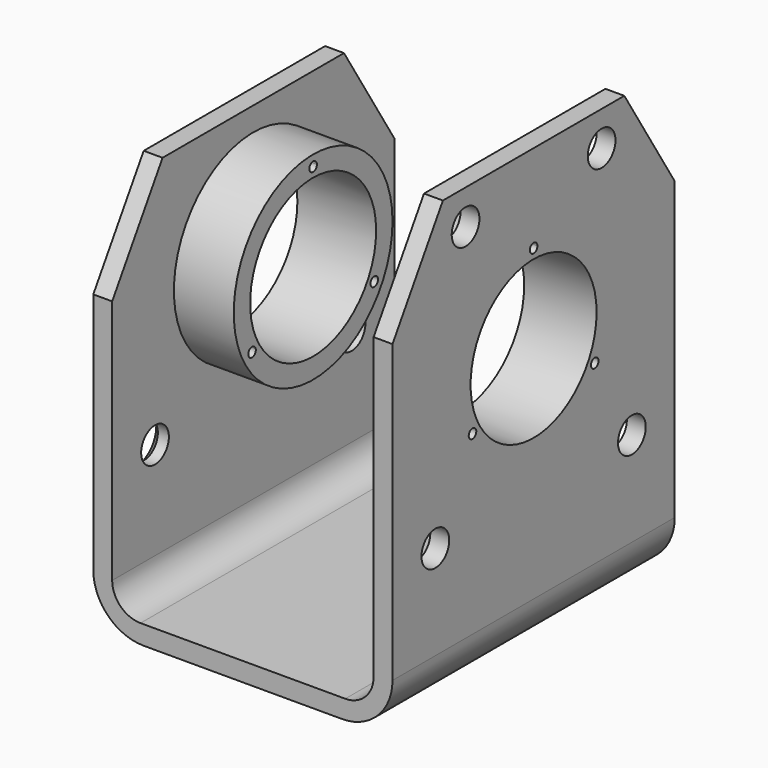
from build123d import *

# Parameters (mm, degrees)
F1_DEPTH    = 112
F2_R        = 25
F3_DEPTH    = 185
F2_R_2      = 31.5
F5_DEPTH    = 184
F6_DEPTH    = 95
F7_W        = 47
F7_H        = 100
F8_DEPTH    = 159
F9_R        = 5.5
F10_DEPTH   = 157.2
F9_R_2      = 1.5
F11_DEPTH   = 154.4
F12_SIZE2   = 32
F12_SIZE    = 20
F12_2_SIZE2 = 32
F12_2_SIZE  = 20
F13_SIZE    = 2.5


with BuildPart() as f1:
    # F0 (on Front) → F1 (new body)
    with BuildSketch(Plane.XZ):
        with BuildLine():
            ThreePointArc((-59.7957043946, -22.8214863997), (-55.1094128936, -34.1351948987), (-43.7957043946, -38.8214863997))
            Line((-43.7957043946, -38.8214863997), (19.2042956054, -38.8214863997))
            ThreePointArc((19.2042956054, -38.8214863997), (30.5180041044, -34.1351948987), (35.2042956054, -22.8214863997))
            Line((35.2042956054, -22.8214863997), (35.2042956054, 103.1785136003))
            Line((35.2042956054, 103.1785136003), (29.2042956054, 103.1785136003))
            Line((29.2042956054, 103.1785136003), (29.2042956054, 87.1785136003))
            Line((29.2042956054, 87.1785136003), (29.2042956054, -23.8214863997))
            ThreePointArc((29.2042956054, -23.8214863997), (26.5682566361, -30.1854474304), (20.2042956054, -32.8214863997))
            Line((20.2042956054, -32.8214863997), (-44.7957043946, -32.8214863997))
            ThreePointArc((-44.7957043946, -32.8214863997), (-51.1596654253, -30.1854474304), (-53.7957043946, -23.8214863997))
            Line((-53.7957043946, -23.8214863997), (-53.7957043946, 86.1785136003))
            Line((-53.7957043946, 86.1785136003), (-59.7957043946, 86.1785136003))
            Line((-59.7957043946, 86.1785136003), (-59.7957043946, -22.8214863997))
        make_face()
    extrude(amount=F1_DEPTH)

    # F2 (on face) → F3 (cut)
    with BuildSketch(Plane.YZ.offset(35.2042956054)):
        with Locations((-56, 47.1785136003)):
            Circle(F2_R)
    extrude(amount=-F3_DEPTH, mode=Mode.SUBTRACT)

    # F2 (on face) → F5 (cut)
    with BuildSketch(Plane.YZ.offset(35.2042956054)):
        with Locations((-56, 47.1785136003)):
            Circle(F2_R_2)
        with Locations((-56, 47.1785136003)):
            Circle(F2_R, mode=Mode.SUBTRACT)
    extrude(amount=-F5_DEPTH, mode=Mode.SUBTRACT)

    # F2 (on face) → F6 (join)
    with BuildSketch(Plane.YZ.offset(35.2042956054)):
        with Locations((-56, 47.1785136003)):
            Circle(F2_R_2)
        with Locations((-56, 47.1785136003)):
            Circle(F2_R, mode=Mode.SUBTRACT)
    extrude(amount=-F6_DEPTH)

    # F7 (on offset) → F8 (cut)
    with BuildSketch(Plane.XZ.offset(137)):
        with Locations((-11.2957043946, 29.1785136003)):
            Rectangle(F7_W, F7_H)
    extrude(amount=-F8_DEPTH, mode=Mode.SUBTRACT)

    # F9 (on face) → F10 (cut)
    with BuildSketch(Plane.YZ.offset(35.2042956054)):
        with Locations((-83, 92.1785136003)):
            Circle(F9_R)
        with Locations((-29, 92.1785136003)):
            Circle(F9_R)
        with Locations((-95, 7.1785136003)):
            Circle(F9_R)
        with Locations((-17, 7.1785136003)):
            Circle(F9_R)
    extrude(amount=-F10_DEPTH, mode=Mode.SUBTRACT)

    # F9 (on face) → F11 (cut)
    with BuildSketch(Plane.YZ.offset(35.2042956054)):
        with Locations((-31.751288694, 33.2468845546)):
            Circle(F9_R_2)
        with Locations((-80.248711306, 33.2468845546)):
            Circle(F9_R_2)
        with BuildLine():
            ThreePointArc((-56, 73.7468845546), (-54.9393398282, 74.1862243828), (-54.5, 75.2468845546))
            ThreePointArc((-54.5, 75.2468845546), (-57.0606601718, 76.3075447264), (-56, 73.7468845546))
        make_face()
    extrude(amount=-F11_DEPTH, mode=Mode.SUBTRACT)

    # F12
    f12_edges = [f1.edges().sort_by_distance(p)[0] for p in [
        (-56.795704, 0, 86.178514),
        (-56.795704, -112, 86.178514),
    ]]
    f12_side = f1.faces().sort_by_distance((-56.795704, -56, 86.178514))[0]
    chamfer(f12_edges, length=F12_SIZE, length2=F12_SIZE2, reference=f12_side)

    # F12#2
    f12_2_edges = [f1.edges().sort_by_distance(p)[0] for p in [
        (32.204296, 0, 103.178514),
        (32.204296, -112, 103.178514),
    ]]
    f12_2_side = f1.faces().sort_by_distance((32.204296, -56, 103.178514))[0]
    chamfer(f12_2_edges, length=F12_2_SIZE, length2=F12_2_SIZE2, reference=f12_2_side)

    # F13
    f13_edges = [f1.edges().sort_by_distance(p)[0] for p in [
        (-59.795704, -22.5, 7.178514),
        (-59.795704, -100.5, 7.178514),
    ]]
    chamfer(f13_edges, length=F13_SIZE)


solid = f1.part
